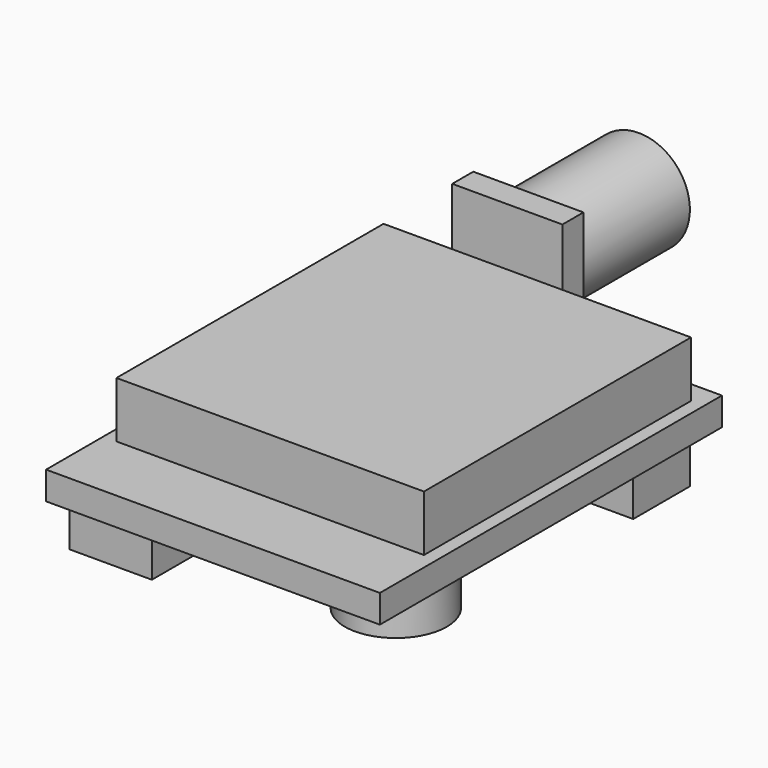
from build123d import *

# Parameters (mm, degrees)
F1_DEPTH  = 1.7
F2_W      = 18.7
F2_H      = 20.3
F3_DEPTH  = 3.4
F4_W      = 5
F4_H      = 7.3
F5_DEPTH  = 3.3
F4_W_2    = 5.5
F4_H_2    = 9.5
F4_W_3    = 8.7
F4_H_3    = 4.3
F4_R      = 3.1
F6_DEPTH  = 2.5
F7_W      = 6.7
F7_H      = 6.7
F8_DEPTH  = 1.6
F9_R      = 3.1
F10_DEPTH = 8.4


with BuildPart() as f1:
    # F0 (on Top) → F1 (new body)
    with BuildSketch(Plane.XY):
        Polygon((-10.15, -14.5), (10.15, -14.5), (10.15, 11.5), (-0.55, 11.5), (-0.55, 14.5), (-10.15, 14.5), align=None)
    extrude(amount=F1_DEPTH)

    # F2 (on face) → F3 (join)
    with BuildSketch(Plane.XY.offset(1.7)):
        Rectangle(F2_W, F2_H)
    extrude(amount=F3_DEPTH)

    # F4 (on face) → F5 (join)
    with BuildSketch(Plane(origin=(0, 0, 0), x_dir=(1, 0, 0), z_dir=(0, 0, -1))):
        with Locations((-7.65, 9.057866)):
            Rectangle(F4_W, F4_H)
    extrude(amount=F5_DEPTH)

    # F4 (on face) → F6 (join)
    with BuildSketch(Plane(origin=(0, 0, 0), x_dir=(1, 0, 0), z_dir=(0, 0, -1))):
        with Locations((-3.290825, -1.773557)):
            Rectangle(F4_W_2, F4_H_2)
        with Locations((5.408567, -7.397804)):
            Rectangle(F4_W_3, F4_H_3)
        with Locations((6.664579, 8.933897)):
            Circle(F4_R)
    extrude(amount=F6_DEPTH)

    # F7 (on face) → F8 (join)
    with BuildSketch(Plane(origin=(0, 14.5, 0), x_dir=(-1, 0, 0), z_dir=(0, 1, 0))):
        with Locations((5.3, 2.35)):
            Rectangle(F7_W, F7_H)
    extrude(amount=F8_DEPTH)

    # F9 (on face) → F10 (join)
    with BuildSketch(Plane(origin=(0, 16.1, 0), x_dir=(-1, 0, 0), z_dir=(0, 1, 0))):
        with Locations((5.3, 2.35)):
            Circle(F9_R)
    extrude(amount=F10_DEPTH)


solid = f1.part
